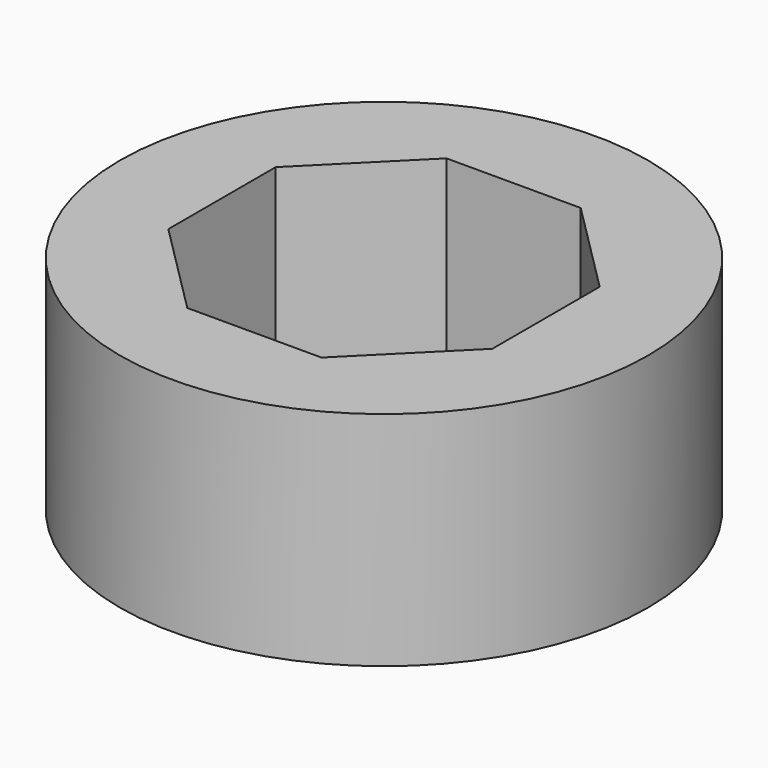
from build123d import *

# Parameters (mm, degrees)
F0_R     = 5.9507315311
F1_DEPTH = 2.5


with BuildPart() as f1:
    # F0 (on Top) → F1 (new body, symmetric)
    with BuildSketch(Plane.XY):
        Circle(F0_R)
        Polygon((1.5118795027, 3.65), (3.65, 1.5118795027), (3.65, -1.5118795027), (1.5118795027, -3.65), (-1.5118795027, -3.65), (-3.65, -1.5118795027), (-3.65, 1.5118795027), (-1.5118795027, 3.65), align=None, mode=Mode.SUBTRACT)
    extrude(amount=F1_DEPTH, both=True)


solid = f1.part
